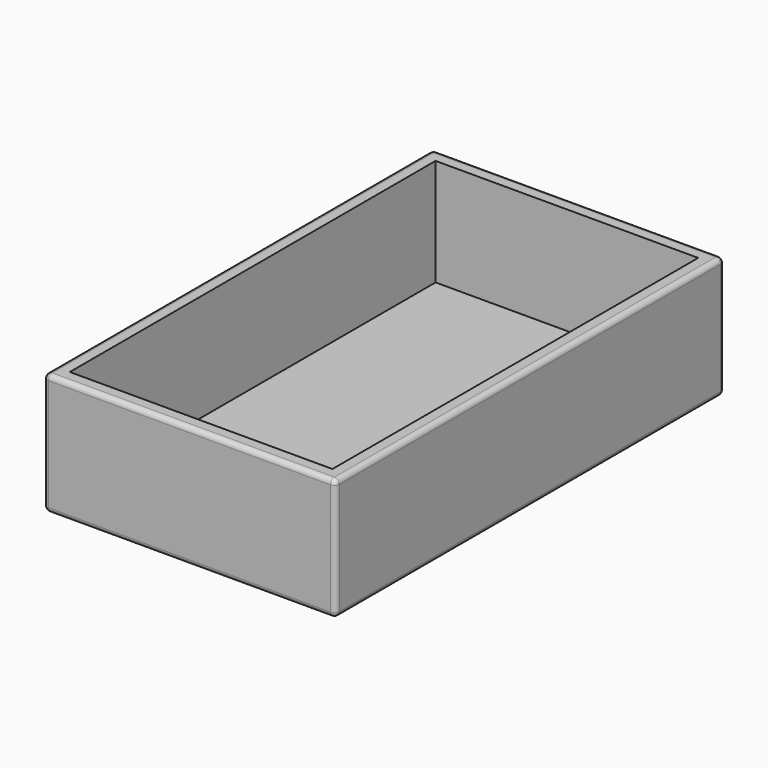
from build123d import *

# Parameters (mm, degrees)
F0_W     = 60
F0_H     = 100
F1_DEPTH = 25
F2_T     = -3
F3_R     = 1


with BuildPart() as f1:
    # F0 (on Top) → F1 (new body)
    with BuildSketch(Plane.XY):
        with Locations((-16.971023, 0.550396)):
            Rectangle(F0_W, F0_H)
    extrude(amount=F1_DEPTH)

    # F2
    f2_openings = [f1.faces().sort_by_distance(p)[0] for p in [
        (-16.971023, 0.550396, 25),
    ]]
    offset(amount=F2_T, openings=f2_openings)

    # F3
    f3_edges = [f1.edges().sort_by_distance(p)[0] for p in [
        (13.028977, 0.550396, 25),
        (-16.971023, -49.449604, 25),
        (-46.971023, 0.550396, 25),
        (-16.971023, 50.550396, 25),
        (13.028977, 50.550396, 12.5),
        (13.028977, -49.449604, 12.5),
        (-46.971023, -49.449604, 12.5),
        (-16.971023, -49.449604, 0),
        (13.028977, 0.550396, 0),
        (-16.971023, 50.550396, 0),
        (-46.971023, 0.550396, 0),
        (-46.971023, 50.550396, 12.5),
    ]]
    fillet(f3_edges, radius=F3_R)


solid = f1.part
